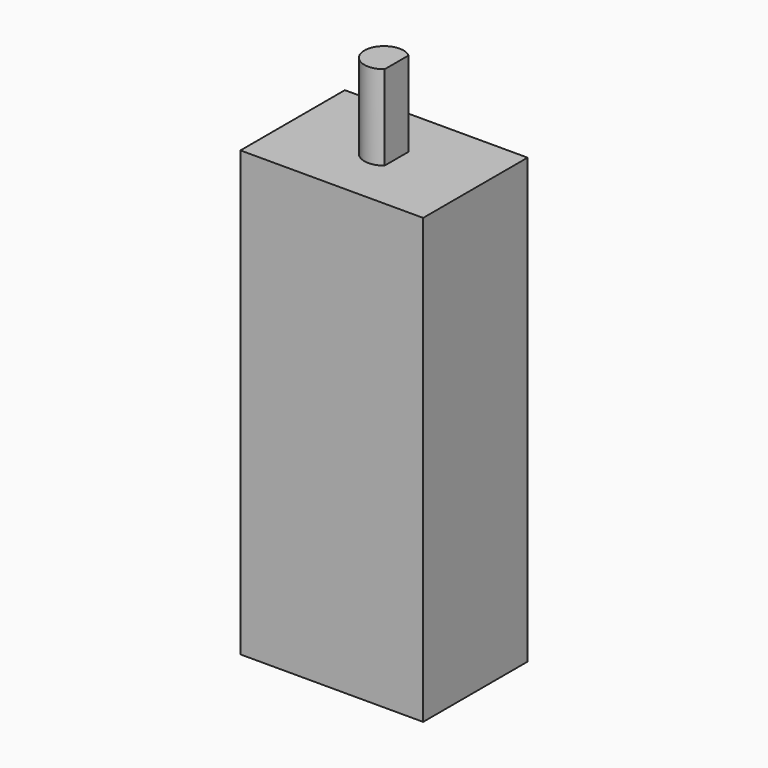
from build123d import *

# Parameters (mm, degrees)
F0_W     = 14
F0_H     = 10
F1_DEPTH = 34
F3_DEPTH = 6.5


with BuildPart() as f1:
    # F0 (on Top) → F1 (new body)
    with BuildSketch(Plane.XY):
        Rectangle(F0_W, F0_H)
    extrude(amount=F1_DEPTH)

    # F2 (on face) → F3 (join)
    with BuildSketch(Plane.XY.offset(34)):
        with BuildLine():
            Line((0.967969, -1.145878), (0.967969, 1.145878))
            ThreePointArc((0.967969, 1.145878), (-1.5, 0), (0.967969, -1.145878))
        make_face()
    extrude(amount=F3_DEPTH)


solid = f1.part
